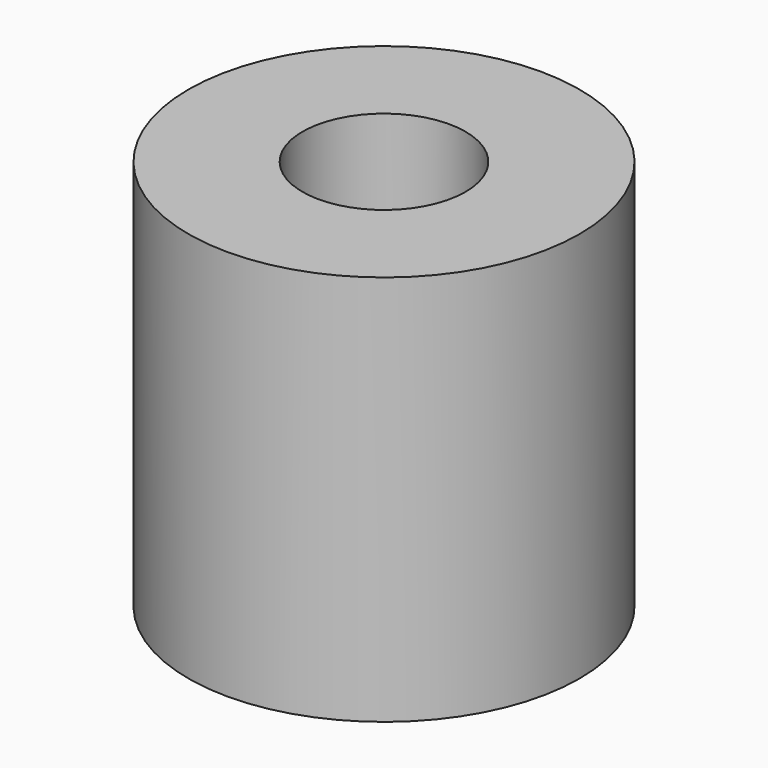
from build123d import *

# Parameters (mm, degrees)
CYLINDER018_R     = 1.25
CYLINDER018_DEPTH = 5
CYLINDER014_R     = 3
CYLINDER014_DEPTH = 6


with BuildPart() as obj1:
    # Cylinder018 → Cylinder018 (new body)
    with BuildSketch(Plane(origin=(55, 28, 3), x_dir=(1, 0, 0), z_dir=(0, 0, 1))):
        Circle(CYLINDER018_R)
    extrude(amount=CYLINDER018_DEPTH)


with BuildPart() as h_cut007:
    # Cylinder014 → Cylinder014 (new body)
    with BuildSketch(Plane(origin=(55, 28, 0), x_dir=(1, 0, 0), z_dir=(0, 0, 1))):
        Circle(CYLINDER014_R)
    extrude(amount=CYLINDER014_DEPTH)

    # Cut007: cut obj1
    add(obj1.part, mode=Mode.SUBTRACT)


with BuildPart() as h_cut007_1:
    # Cut007 placement: moved
    add(h_cut007.part.moved(Location((10, 6.5, 0))))


solid = h_cut007_1.part
